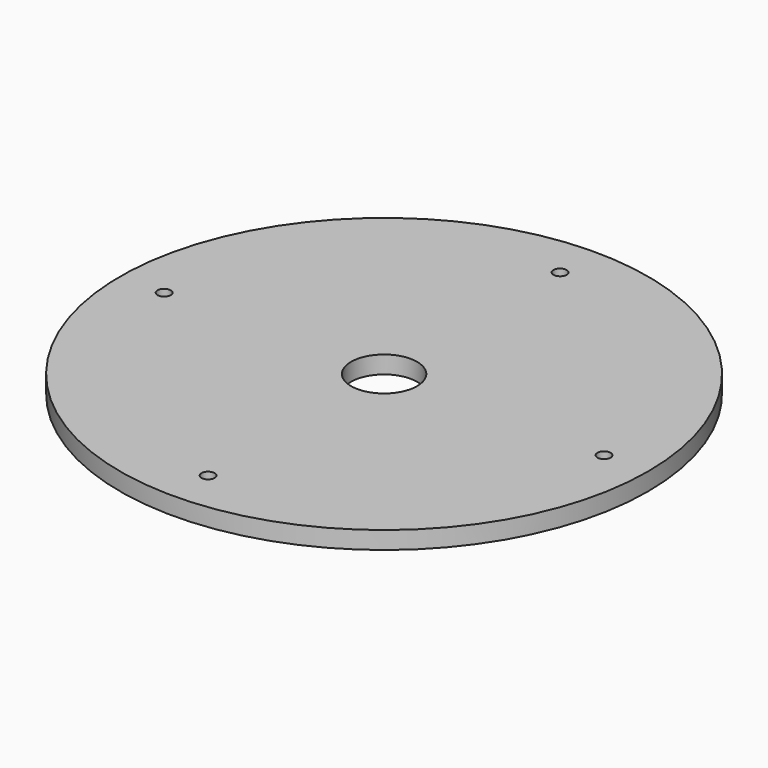
from build123d import *

# Parameters (mm, degrees)
SKETCH_R   = 60
SKETCH_R_2 = 7.5
SKETCH_R_3 = 1.5
PAD_DEPTH  = 4


with BuildPart() as part:
    # Sketch → Pad (new body)
    with BuildSketch(Plane.XY):
        Circle(SKETCH_R)
        Circle(SKETCH_R_2, mode=Mode.SUBTRACT)
        with Locations((0, 50)):
            Circle(SKETCH_R_3, mode=Mode.SUBTRACT)
        with Locations((0, -50)):
            Circle(SKETCH_R_3, mode=Mode.SUBTRACT)
        with Locations((50, 0)):
            Circle(SKETCH_R_3, mode=Mode.SUBTRACT)
        with Locations((-50, 0)):
            Circle(SKETCH_R_3, mode=Mode.SUBTRACT)
    extrude(amount=PAD_DEPTH)


solid = part.part
